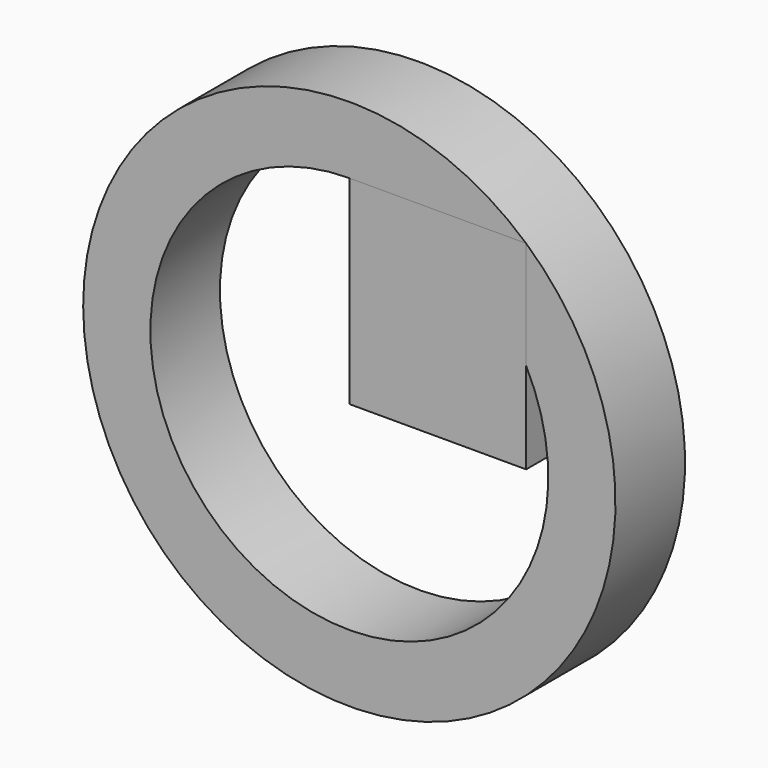
from build123d import *

# Parameters (mm, degrees)
F0_W      = 54.628875
F0_H      = 26.859861
F1_DEPTH  = 61.468
F1_FACE_W = 54.628876
F1_FACE_H = 26.85986


with BuildPart() as f1:
    # F0 (on Top) → F1 (new body)
    with BuildSketch(Plane.XY):
        with Locations((-27.314438, -13.42993)):
            Rectangle(F0_W, F0_H)
    extrude(amount=F1_DEPTH)

    # F1_face (on face) → F2 (revolve)
    with BuildSketch(Plane(origin=(-27.314438, -13.42993, 61.468), x_dir=(1, 0, 0), z_dir=(0, 0, 1))):
        Rectangle(F1_FACE_W, F1_FACE_H)
    revolve(axis=Axis((-54.628875, -13.42993, 0), (0, 1, 0)))


solid = f1.part
